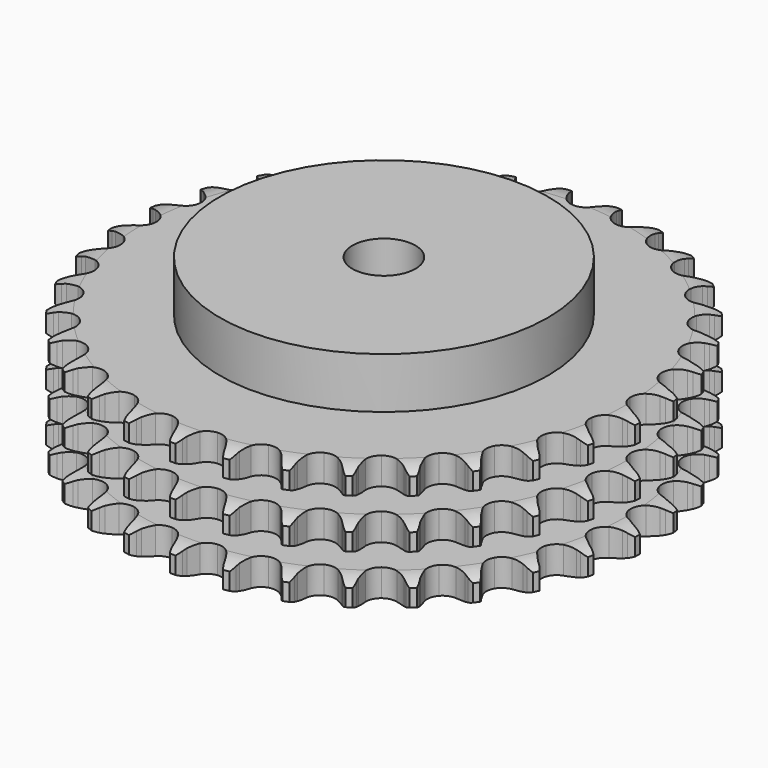
from build123d import *

# Parameters (mm, degrees)
PAD_DEPTH         = 49.8
SKETCH001_R       = 65
PAD001_DEPTH      = 70
SKETCH002_R       = 12.5
POCKET_DEPTH      = 0.001
POCKET_DEPTH_BACK = 70.001


with BuildPart() as part:
    # Sprocket → Pad (new body)
    with BuildSketch(Plane.XY):
        with BuildLine():
            ThreePointArc((-10.099295, 105.764603), (-8.644231, 104.046053), (-7.618616, 102.041373))
            Line((-7.618616, 102.041373), (-7.029788, 100.467752))
            ThreePointArc((-7.029788, 100.467752), (-6.097562, 98.430739), (-4.885923, 96.546488))
            ThreePointArc((-4.885923, 96.546488), (-2.731931, 94.746342), (0, 94.10077))
            ThreePointArc((0, 94.10077), (2.731931, 94.746342), (4.885923, 96.546488))
            ThreePointArc((4.885923, 96.546488), (6.097562, 98.430739), (7.029788, 100.467752))
            Line((7.029788, 100.467752), (7.618616, 102.041373))
            ThreePointArc((7.618616, 102.041373), (8.644231, 104.046053), (10.099295, 105.764603))
            ThreePointArc((10.099295, 105.764603), (11.202827, 103.801737), (11.83052, 101.639185))
            Line((11.83052, 101.639185), (12.110896, 99.982565))
            ThreePointArc((12.110896, 99.982565), (12.640769, 97.805938), (13.473915, 95.726434))
            ThreePointArc((13.473915, 95.726434), (15.248302, 93.551173), (17.808688, 92.400246))
            ThreePointArc((17.808688, 92.400246), (20.613424, 92.517131), (23.069171, 93.8771))
            Line((23.069171, 93.8771), (25.916398, 97.321773))
            ThreePointArc((25.916398, 97.321773), (26.335275, 98.050329), (26.792394, 98.75552))
            ThreePointArc((26.792394, 98.75552), (28.178863, 100.529874), (29.93287, 101.941995))
            ThreePointArc((29.93287, 101.941995), (30.644985, 99.805755), (30.852069, 97.563492))
            Line((30.852069, 97.563492), (30.813861, 95.883748))
            ThreePointArc((30.813861, 95.883748), (30.922229, 93.646176), (31.34677, 91.446578))
            ThreePointArc((31.34677, 91.446578), (32.677421, 88.974822), (34.973723, 87.360137))
            ThreePointArc((34.973723, 87.360137), (37.749895, 86.944109), (40.418639, 87.814749))
            Line((40.418639, 87.814749), (43.866322, 90.658331))
            ThreePointArc((43.866322, 90.658331), (44.415509, 91.294448), (44.997826, 91.900385))
            ThreePointArc((44.997826, 91.900385), (46.695038, 93.380283), (48.684594, 94.434937))
            ThreePointArc((48.684594, 94.434937), (48.979554, 92.202534), (48.758544, 89.9616))
            Line((48.758544, 89.9616), (48.403133, 88.319442))
            ThreePointArc((48.403133, 88.319442), (48.08608, 86.101798), (48.086672, 83.861604))
            ThreePointArc((48.086672, 83.861604), (48.925493, 81.182688), (50.874717, 79.162605))
            ThreePointArc((50.874717, 79.162605), (53.521986, 78.228701), (56.307273, 78.578545))
            Line((56.307273, 78.578545), (60.230802, 80.718261))
            ThreePointArc((60.230802, 80.718261), (60.890451, 81.238948), (61.576919, 81.723731))
            ThreePointArc((61.576919, 81.723731), (63.523533, 82.855686), (65.676729, 83.514755))
            ThreePointArc((65.676729, 83.514755), (65.543873, 81.266872), (64.902759, 79.108262))
            Line((64.902759, 79.108262), (64.24299, 77.563041))
            ThreePointArc((64.24299, 77.563041), (63.511974, 75.445476), (63.088596, 73.245653))
            ThreePointArc((63.088596, 73.245653), (63.405271, 70.456401), (64.936966, 68.10393))
            ThreePointArc((64.936966, 68.10393), (67.359653, 66.685904), (70.160814, 66.502307))
            Line((70.160814, 66.502307), (74.418384, 67.860822))
            ThreePointArc((74.418384, 67.860822), (75.164653, 68.247261), (75.930462, 68.593368))
            ThreePointArc((75.930462, 68.593368), (78.056121, 69.336468), (80.295136, 69.576132))
            ThreePointArc((80.295136, 69.576132), (79.739267, 67.394014), (78.701218, 65.395745))
            Line((78.701218, 65.395745), (77.760937, 64.00331))
            ThreePointArc((77.760937, 64.00331), (76.64238, 62.062357), (75.810334, 59.982413))
            ThreePointArc((75.810334, 59.982413), (75.593416, 57.183635), (76.652224, 54.583802))
            ThreePointArc((76.652224, 54.583802), (78.762767, 52.732905), (81.478561, 52.022502))
            Line((81.478561, 52.022502), (85.916292, 52.550717))
            ThreePointArc((85.916292, 52.550717), (86.722209, 52.78894), (87.53968, 52.983863))
            ThreePointArc((87.53968, 52.983863), (89.767558, 53.31125), (92.011468, 53.122846))
            ThreePointArc((92.011468, 53.122846), (91.052676, 51.085361), (89.655211, 49.319655))
            Line((89.655211, 49.319655), (88.468402, 48.130333))
            ThreePointArc((88.468402, 48.130333), (87.002731, 46.436144), (85.792089, 44.551253))
            ThreePointArc((85.792089, 44.551253), (85.049419, 41.844105), (85.597071, 39.090872))
            ThreePointArc((85.597071, 39.090872), (87.319189, 36.874001), (89.851461, 35.662468))
            Line((89.851461, 35.662468), (94.308961, 35.341292))
            ThreePointArc((94.308961, 35.341292), (95.145398, 35.422689), (95.984985, 35.459382))
            ThreePointArc((95.984985, 35.459382), (98.234562, 35.359224), (100.402266, 34.749562))
            ThreePointArc((100.402266, 34.749562), (99.075203, 32.93035), (97.36883, 31.461024))
            Line((97.36883, 31.461024), (95.978388, 30.5178))
            ThreePointArc((95.978388, 30.5178), (94.218576, 29.131607), (92.673094, 27.509894))
            ThreePointArc((92.673094, 27.509894), (91.431514, 24.992219), (91.448216, 22.185097))
            ThreePointArc((91.448216, 22.185097), (92.719668, 19.682375), (94.976894, 18.0135))
            Line((94.976894, 18.0135), (99.293059, 16.854541))
            ThreePointArc((99.293059, 16.854541), (100.129785, 16.77617), (100.961144, 16.653307))
            ThreePointArc((100.961144, 16.653307), (103.151113, 16.129223), (105.164264, 15.120338))
            ThreePointArc((105.164264, 15.120338), (103.516895, 13.58515), (101.563287, 12.46531))
            Line((101.563287, 12.46531), (100.019465, 11.802274))
            ThreePointArc((100.019465, 11.802274), (98.029117, 10.774179), (96.204652, 9.474256))
            ThreePointArc((96.204652, 9.474256), (94.509036, 7.237049), (93.994185, 4.477495))
            ThreePointArc((93.994185, 4.477495), (94.769017, 1.779376), (96.669615, -0.286522))
            Line((96.669615, -0.286522), (100.688447, -2.241378))
            ThreePointArc((100.688447, -2.241378), (101.49522, -2.476684), (102.288303, -2.754662))
            ThreePointArc((102.288303, -2.754662), (104.339513, -3.683729), (106.125352, -5.055374))
            ThreePointArc((106.125352, -5.055374), (104.217217, -6.251052), (102.086981, -6.980932))
            Line((102.086981, -6.980932), (100.445578, -7.339817))
            ThreePointArc((100.445578, -7.339817), (98.296629, -7.972657), (96.259124, -8.903806))
            ThreePointArc((96.259124, -8.903806), (94.170755, -10.779687), (93.142959, -13.391936))
            ThreePointArc((93.142959, -13.391936), (93.393166, -16.187934), (94.868445, -18.57619))
            Line((94.868445, -18.57619), (98.444692, -21.256287))
            ThreePointArc((98.444692, -21.256287), (99.192354, -21.640024), (99.918497, -22.063071))
            ThreePointArc((99.918497, -22.063071), (101.756812, -23.363542), (103.250793, -25.048371))
            ThreePointArc((103.250793, -25.048371), (101.150856, -25.861326), (98.920986, -26.174866))
            Line((98.920986, -26.174866), (97.241326, -26.216627))
            ThreePointArc((97.241326, -26.216627), (95.011446, -26.43134), (92.834539, -26.960062))
            ThreePointArc((92.834539, -26.960062), (90.428898, -28.406816), (88.925304, -30.777347))
            ThreePointArc((88.925304, -30.777347), (88.641844, -33.57017), (89.638481, -36.194465))
            Line((89.638481, -36.194465), (92.642889, -39.502939))
            ThreePointArc((92.642889, -39.502939), (93.304418, -40.021237), (93.937376, -40.574062))
            ThreePointArc((93.937376, -40.574062), (95.496354, -42.198936), (96.644481, -44.136056))
            ThreePointArc((96.644481, -44.136056), (94.42864, -44.536903), (92.179729, -44.422772))
            Line((92.179729, -44.422772), (90.52252, -44.145901))
            ThreePointArc((90.52252, -44.145901), (88.292301, -43.934726), (86.054673, -44.04191))
            ThreePointArc((86.054673, -44.04191), (83.418704, -45.007249), (81.493657, -47.050385))
            ThreePointArc((81.493657, -47.050385), (80.686773, -49.739093), (81.16875, -52.504578))
            Line((81.16875, -52.504578), (83.492731, -56.321851))
            ThreePointArc((83.492731, -56.321851), (84.044216, -56.955978), (84.561114, -57.618601))
            ThreePointArc((84.561114, -57.618601), (85.78441, -59.50915), (86.545186, -61.628548))
            ThreePointArc((86.545186, -61.628548), (84.293528, -61.602801), (82.106857, -61.065123))
            Line((82.106857, -61.065123), (80.531993, -60.479626))
            ThreePointArc((80.531993, -60.479626), (78.382043, -59.850196), (76.164567, -59.53197))
            ThreePointArc((76.164567, -59.53197), (73.393542, -59.981003), (71.116617, -61.622899))
            ThreePointArc((71.116617, -61.622899), (69.815473, -64.110315), (69.765368, -66.917039))
            Line((69.765368, -66.917039), (71.324928, -71.105145))
            ThreePointArc((71.324928, -71.105145), (71.746438, -71.832182), (72.128592, -72.580654))
            ThreePointArc((72.128592, -72.580654), (72.971993, -74.668548), (73.317922, -76.893624))
            ThreePointArc((73.317922, -76.893624), (71.111827, -76.442213), (69.066428, -75.500422))
            Line((69.066428, -75.500422), (67.630831, -74.62746))
            ThreePointArc((67.630831, -74.62746), (65.638853, -73.602524), (63.521674, -72.870388))
            ThreePointArc((63.521674, -72.870388), (60.715745, -72.786888), (58.169236, -73.968201))
            ThreePointArc((58.169236, -73.968201), (56.42086, -76.164423), (55.840484, -78.910943))
            Line((55.840484, -78.910943), (56.579257, -83.318514))
            ThreePointArc((56.579257, -83.318514), (56.855557, -84.112183), (57.089155, -84.919453))
            ThreePointArc((57.089155, -84.919453), (57.522178, -87.129231), (57.440758, -89.379564))
            ThreePointArc((57.440758, -89.379564), (55.35996, -88.518805), (53.529759, -87.206938))
            Line((53.529759, -87.206938), (52.285314, -86.078064))
            ThreePointArc((52.285314, -86.078064), (50.523304, -84.694665), (48.582943, -83.575081))
            ThreePointArc((48.582943, -83.575081), (45.843524, -82.962064), (43.119468, -83.6401))
            ThreePointArc((43.119468, -83.6401), (40.98705, -85.46575), (39.89738, -88.052801))
            Line((39.89738, -88.052801), (39.788663, -92.520535))
            ThreePointArc((39.788663, -92.520535), (39.909767, -93.352152), (39.986368, -94.189042))
            ThreePointArc((39.986368, -94.189042), (39.993362, -96.440836), (39.487535, -98.635093))
            ThreePointArc((39.487535, -98.635093), (37.607239, -97.396096), (36.058385, -95.761569))
            Line((36.058385, -95.761569), (35.050069, -94.417582))
            ThreePointArc((35.050069, -94.417582), (33.581712, -92.725721), (31.888298, -91.259153))
            ThreePointArc((31.888298, -91.259153), (29.314398, -90.138775), (26.51125, -90.289027))
            ThreePointArc((26.51125, -90.289027), (24.071861, -91.678123), (22.51228, -94.012201))
            Line((22.51228, -94.012201), (21.560004, -98.378622))
            ThreePointArc((21.560004, -98.378622), (21.521535, -99.21813), (21.438369, -100.054393))
            ThreePointArc((21.438369, -100.054393), (21.019082, -102.266818), (20.107129, -104.325694))
            ThreePointArc((20.107129, -104.325694), (18.495295, -102.753238), (17.283767, -100.855127))
            Line((17.283767, -100.855127), (16.548024, -99.344602))
            ThreePointArc((16.548024, -99.344602), (15.426388, -97.405427), (14.041127, -95.644882))
            ThreePointArc((14.041127, -95.644882), (11.725773, -94.057637), (8.944847, -93.674674))
            ThreePointArc((8.944847, -93.674674), (6.286652, -94.57701), (4.313528, -96.573755))
            Line((4.313528, -96.573755), (2.55211, -100.68105))
            ThreePointArc((2.55211, -100.68105), (2.355458, -101.498106), (2.115531, -102.303518))
            ThreePointArc((2.115531, -102.303518), (1.285117, -104.396611), (0, -106.245692))
            ThreePointArc((0, -106.245692), (-1.285117, -104.396611), (-2.115531, -102.303518))
            Line((-2.115531, -102.303518), (-2.55211, -100.68105))
            ThreePointArc((-2.55211, -100.68105), (-3.286485, -98.564647), (-4.313528, -96.573755))
            ThreePointArc((-4.313528, -96.573755), (-6.286652, -94.57701), (-8.944847, -93.674674))
            ThreePointArc((-8.944847, -93.674674), (-11.725773, -94.057637), (-14.041127, -95.644882))
            Line((-14.041127, -95.644882), (-16.548024, -99.344602))
            ThreePointArc((-16.548024, -99.344602), (-16.895751, -100.109677), (-17.283767, -100.855127))
            ThreePointArc((-17.283767, -100.855127), (-18.495295, -102.753238), (-20.107129, -104.325694))
            ThreePointArc((-20.107129, -104.325694), (-21.019082, -102.266818), (-21.438369, -100.054393))
            Line((-21.438369, -100.054393), (-21.560004, -98.378622))
            ThreePointArc((-21.560004, -98.378622), (-21.880576, -96.161484), (-22.51228, -94.012201))
            ThreePointArc((-22.51228, -94.012201), (-24.071861, -91.678123), (-26.51125, -90.289027))
            ThreePointArc((-26.51125, -90.289027), (-29.314398, -90.138775), (-31.888298, -91.259153))
            Line((-31.888298, -91.259153), (-35.050069, -94.417582))
            ThreePointArc((-35.050069, -94.417582), (-35.536303, -95.103023), (-36.058385, -95.761569))
            ThreePointArc((-36.058385, -95.761569), (-37.607239, -97.396096), (-39.487535, -98.635093))
            ThreePointArc((-39.487535, -98.635093), (-39.993362, -96.440836), (-39.986368, -94.189042))
            Line((-39.986368, -94.189042), (-39.788663, -92.520535))
            ThreePointArc((-39.788663, -92.520535), (-39.683846, -90.282795), (-39.89738, -88.052801))
            ThreePointArc((-39.89738, -88.052801), (-40.98705, -85.46575), (-43.119468, -83.6401))
            ThreePointArc((-43.119468, -83.6401), (-45.843524, -82.962064), (-48.582943, -83.575081))
            Line((-48.582943, -83.575081), (-52.285314, -86.078064))
            ThreePointArc((-52.285314, -86.078064), (-52.892481, -86.659097), (-53.529759, -87.206938))
            ThreePointArc((-53.529759, -87.206938), (-55.35996, -88.518805), (-57.440758, -89.379564))
            ThreePointArc((-57.440758, -89.379564), (-57.522178, -87.129231), (-57.089155, -84.919453))
            Line((-57.089155, -84.919453), (-56.579257, -83.318514))
            ThreePointArc((-56.579257, -83.318514), (-56.052838, -81.14105), (-55.840484, -78.910943))
            ThreePointArc((-55.840484, -78.910943), (-56.42086, -76.164423), (-58.169236, -73.968201))
            ThreePointArc((-58.169236, -73.968201), (-60.715745, -72.786888), (-63.521674, -72.870388))
            Line((-63.521674, -72.870388), (-67.630831, -74.62746))
            ThreePointArc((-67.630831, -74.62746), (-68.336987, -75.083087), (-69.066428, -75.500422))
            ThreePointArc((-69.066428, -75.500422), (-71.111827, -76.442213), (-73.317922, -76.893624))
            ThreePointArc((-73.317922, -76.893624), (-72.971993, -74.668548), (-72.128592, -72.580654))
            Line((-72.128592, -72.580654), (-71.324928, -71.105145))
            ThreePointArc((-71.324928, -71.105145), (-70.395935, -69.066656), (-69.765368, -66.917039))
            ThreePointArc((-69.765368, -66.917039), (-69.815473, -64.110315), (-71.116617, -61.622899))
            ThreePointArc((-71.116617, -61.622899), (-73.393542, -59.981003), (-76.164567, -59.53197))
            Line((-76.164567, -59.53197), (-80.531993, -60.479626))
            ThreePointArc((-80.531993, -60.479626), (-81.311617, -60.793378), (-82.106857, -61.065123))
            ThreePointArc((-82.106857, -61.065123), (-84.293528, -61.602801), (-86.545186, -61.628548))
            ThreePointArc((-86.545186, -61.628548), (-85.78441, -59.50915), (-84.561114, -57.618601))
            Line((-84.561114, -57.618601), (-83.492731, -56.321851))
            ThreePointArc((-83.492731, -56.321851), (-82.194739, -54.496013), (-81.16875, -52.504578))
            ThreePointArc((-81.16875, -52.504578), (-80.686773, -49.739093), (-81.493657, -47.050385))
            ThreePointArc((-81.493657, -47.050385), (-83.418704, -45.007249), (-86.054673, -44.04191))
            Line((-86.054673, -44.04191), (-90.52252, -44.145901))
            ThreePointArc((-90.52252, -44.145901), (-91.347432, -44.306437), (-92.179729, -44.422772))
            ThreePointArc((-92.179729, -44.422772), (-94.42864, -44.536903), (-96.644481, -44.136056))
            ThreePointArc((-96.644481, -44.136056), (-95.496354, -42.198936), (-93.937376, -40.574062))
            Line((-93.937376, -40.574062), (-92.642889, -39.502939))
            ThreePointArc((-92.642889, -39.502939), (-91.022812, -37.955742), (-89.638481, -36.194465))
            ThreePointArc((-89.638481, -36.194465), (-88.641844, -33.57017), (-88.925304, -30.777347))
            ThreePointArc((-88.925304, -30.777347), (-90.428898, -28.406816), (-92.834539, -26.960062))
            Line((-92.834539, -26.960062), (-97.241326, -26.216627))
            ThreePointArc((-97.241326, -26.216627), (-98.081713, -26.218147), (-98.920986, -26.174866))
            ThreePointArc((-98.920986, -26.174866), (-101.150856, -25.861326), (-103.250793, -25.048371))
            ThreePointArc((-103.250793, -25.048371), (-101.756812, -23.363542), (-99.918497, -22.063071))
            Line((-99.918497, -22.063071), (-98.444692, -21.256287))
            ThreePointArc((-98.444692, -21.256287), (-96.561082, -20.043652), (-94.868445, -18.57619))
            ThreePointArc((-94.868445, -18.57619), (-93.393166, -16.187934), (-93.142959, -13.391936))
            ThreePointArc((-93.142959, -13.391936), (-94.170755, -10.779687), (-96.259124, -8.903806))
            Line((-96.259124, -8.903806), (-100.445578, -7.339817))
            ThreePointArc((-100.445578, -7.339817), (-101.271066, -7.182265), (-102.086981, -6.980932))
            ThreePointArc((-102.086981, -6.980932), (-104.217217, -6.251052), (-106.125352, -5.055374))
            ThreePointArc((-106.125352, -5.055374), (-104.339513, -3.683729), (-102.288303, -2.754662))
            Line((-102.288303, -2.754662), (-100.688447, -2.241378))
            ThreePointArc((-100.688447, -2.241378), (-98.609384, -1.407132), (-96.669615, -0.286522))
            ThreePointArc((-96.669615, -0.286522), (-94.769017, 1.779376), (-93.994185, 4.477495))
            ThreePointArc((-93.994185, 4.477495), (-94.509036, 7.237049), (-96.204652, 9.474256))
            Line((-96.204652, 9.474256), (-100.019465, 11.802274))
            ThreePointArc((-100.019465, 11.802274), (-100.800219, 12.113203), (-101.563287, 12.46531))
            ThreePointArc((-101.563287, 12.46531), (-103.516895, 13.58515), (-105.164264, 15.120338))
            ThreePointArc((-105.164264, 15.120338), (-103.151113, 16.129223), (-100.961144, 16.653307))
            Line((-100.961144, 16.653307), (-99.293059, 16.854541))
            ThreePointArc((-99.293059, 16.854541), (-97.093685, 17.280245), (-94.976894, 18.0135))
            ThreePointArc((-94.976894, 18.0135), (-92.719668, 19.682375), (-91.448216, 22.185097))
            ThreePointArc((-91.448216, 22.185097), (-91.431514, 24.992219), (-92.673094, 27.509894))
            Line((-92.673094, 27.509894), (-95.978388, 30.5178))
            ThreePointArc((-95.978388, 30.5178), (-96.686188, 30.970869), (-97.36883, 31.461024))
            ThreePointArc((-97.36883, 31.461024), (-99.075203, 32.93035), (-100.402266, 34.749562))
            ThreePointArc((-100.402266, 34.749562), (-98.234562, 35.359224), (-95.984985, 35.459382))
            Line((-95.984985, 35.459382), (-94.308961, 35.341292))
            ThreePointArc((-94.308961, 35.341292), (-92.068768, 35.343069), (-89.851461, 35.662468))
            ThreePointArc((-89.851461, 35.662468), (-87.319189, 36.874001), (-85.597071, 39.090872))
            ThreePointArc((-85.597071, 39.090872), (-85.049419, 41.844105), (-85.792089, 44.551253))
            Line((-85.792089, 44.551253), (-88.468402, 48.130333))
            ThreePointArc((-88.468402, 48.130333), (-89.077668, 48.709166), (-89.655211, 49.319655))
            ThreePointArc((-89.655211, 49.319655), (-91.052676, 51.085361), (-92.011468, 53.122846))
            ThreePointArc((-92.011468, 53.122846), (-89.767558, 53.31125), (-87.53968, 52.983863))
            Line((-87.53968, 52.983863), (-85.916292, 52.550717))
            ThreePointArc((-85.916292, 52.550717), (-83.716246, 52.128503), (-81.478561, 52.022502))
            ThreePointArc((-81.478561, 52.022502), (-78.762767, 52.732905), (-76.652224, 54.583802))
            ThreePointArc((-76.652224, 54.583802), (-75.593416, 57.183635), (-75.810334, 59.982413))
            Line((-75.810334, 59.982413), (-77.760937, 64.00331))
            ThreePointArc((-77.760937, 64.00331), (-78.249648, 64.686988), (-78.701218, 65.395745))
            ThreePointArc((-78.701218, 65.395745), (-79.739267, 67.394014), (-80.295136, 69.576132))
            ThreePointArc((-80.295136, 69.576132), (-78.056121, 69.336468), (-75.930462, 68.593368))
            Line((-75.930462, 68.593368), (-74.418384, 67.860822))
            ThreePointArc((-74.418384, 67.860822), (-72.338, 67.029877), (-70.160814, 66.502307))
            ThreePointArc((-70.160814, 66.502307), (-67.359653, 66.685904), (-64.936966, 68.10393))
            ThreePointArc((-64.936966, 68.10393), (-63.405271, 70.456401), (-63.088596, 73.245653))
            Line((-63.088596, 73.245653), (-64.24299, 77.563041))
            ThreePointArc((-64.24299, 77.563041), (-64.593482, 78.326853), (-64.902759, 79.108262))
            ThreePointArc((-64.902759, 79.108262), (-65.543873, 81.266872), (-65.676729, 83.514755))
            ThreePointArc((-65.676729, 83.514755), (-63.523533, 82.855686), (-61.576919, 81.723731))
            Line((-61.576919, 81.723731), (-60.230802, 80.718261))
            ThreePointArc((-60.230802, 80.718261), (-58.345271, 79.508616), (-56.307273, 78.578545))
            ThreePointArc((-56.307273, 78.578545), (-53.521986, 78.228701), (-50.874717, 79.162605))
            ThreePointArc((-50.874717, 79.162605), (-48.925493, 81.182688), (-48.086672, 83.861604))
            Line((-48.086672, 83.861604), (-48.403133, 88.319442))
            ThreePointArc((-48.403133, 88.319442), (-48.602739, 89.135781), (-48.758544, 89.9616))
            ThreePointArc((-48.758544, 89.9616), (-48.979554, 92.202534), (-48.684594, 94.434937))
            ThreePointArc((-48.684594, 94.434937), (-46.695038, 93.380283), (-44.997826, 91.900385))
            Line((-44.997826, 91.900385), (-43.866322, 90.658331))
            ThreePointArc((-43.866322, 90.658331), (-42.243791, 89.113707), (-40.418639, 87.814749))
            ThreePointArc((-40.418639, 87.814749), (-37.749895, 86.944109), (-34.973723, 87.360137))
            ThreePointArc((-34.973723, 87.360137), (-32.677421, 88.974822), (-31.34677, 91.446578))
            Line((-31.34677, 91.446578), (-30.813861, 95.883748))
            ThreePointArc((-30.813861, 95.883748), (-30.855367, 96.72311), (-30.852069, 97.563492))
            ThreePointArc((-30.852069, 97.563492), (-30.644985, 99.805755), (-29.93287, 101.941995))
            ThreePointArc((-29.93287, 101.941995), (-28.178863, 100.529874), (-26.792394, 98.75552))
            Line((-26.792394, 98.75552), (-25.916398, 97.321773))
            ThreePointArc((-25.916398, 97.321773), (-24.615511, 95.497996), (-23.069171, 93.8771))
            ThreePointArc((-23.069171, 93.8771), (-20.613424, 92.517131), (-17.808688, 92.400246))
            ThreePointArc((-17.808688, 92.400246), (-15.248302, 93.551173), (-13.473915, 95.726434))
            Line((-13.473915, 95.726434), (-12.110896, 99.982565))
            ThreePointArc((-12.110896, 99.982565), (-11.992801, 100.814614), (-11.83052, 101.639185))
            ThreePointArc((-11.83052, 101.639185), (-11.202827, 103.801737), (-10.099295, 105.764603))
        make_face()
    extrude(amount=PAD_DEPTH)

    # Sketch → Groove (revolve, cut)
    with BuildSketch(Plane.XZ):
        with BuildLine():
            ThreePointArc((96.164719, 0), (100.523618, 0.506758), (104.65, 2))
            Line((104.65, 2), (104.65, 8.8))
            ThreePointArc((104.65, 8.8), (100.523618, 10.293242), (96.164719, 10.8))
            Line((65, 10.8), (96.164719, 10.8))
            Line((65, 10.8), (65, 19.5))
            Line((65, 19.5), (96.164719, 19.5))
            ThreePointArc((96.164719, 19.5), (100.523618, 20.006758), (104.65, 21.5))
            Line((104.65, 28.3), (104.65, 21.5))
            ThreePointArc((104.65, 28.3), (100.523618, 29.793242), (96.164719, 30.3))
            Line((65, 30.3), (96.164719, 30.3))
            Line((65, 39), (65, 30.3))
            Line((96.164719, 39), (65, 39))
            ThreePointArc((96.164719, 39), (100.523618, 39.506758), (104.65, 41))
            Line((104.65, 41), (104.65, 47.8))
            ThreePointArc((104.65, 47.8), (100.523618, 49.293242), (96.164719, 49.8))
            Line((96.164719, 49.8), (114.65, 49.8))
            Line((114.65, 49.8), (114.65, 0))
            Line((96.164719, 0), (114.65, 0))
        make_face()
    revolve(axis=Axis((0, 0, 0), (0, 0, 1)), mode=Mode.SUBTRACT)

    # Sketch001 → Pad001 (join)
    with BuildSketch(Plane.XY):
        Circle(SKETCH001_R)
    extrude(amount=PAD001_DEPTH)

    # Sketch002 → Pocket (cut, two sides)
    with BuildSketch(Plane.XY) as pocket_sk:
        Circle(SKETCH002_R)
    extrude(amount=-POCKET_DEPTH, mode=Mode.SUBTRACT)
    extrude(pocket_sk.sketch, amount=POCKET_DEPTH_BACK, mode=Mode.SUBTRACT)


solid = part.part
